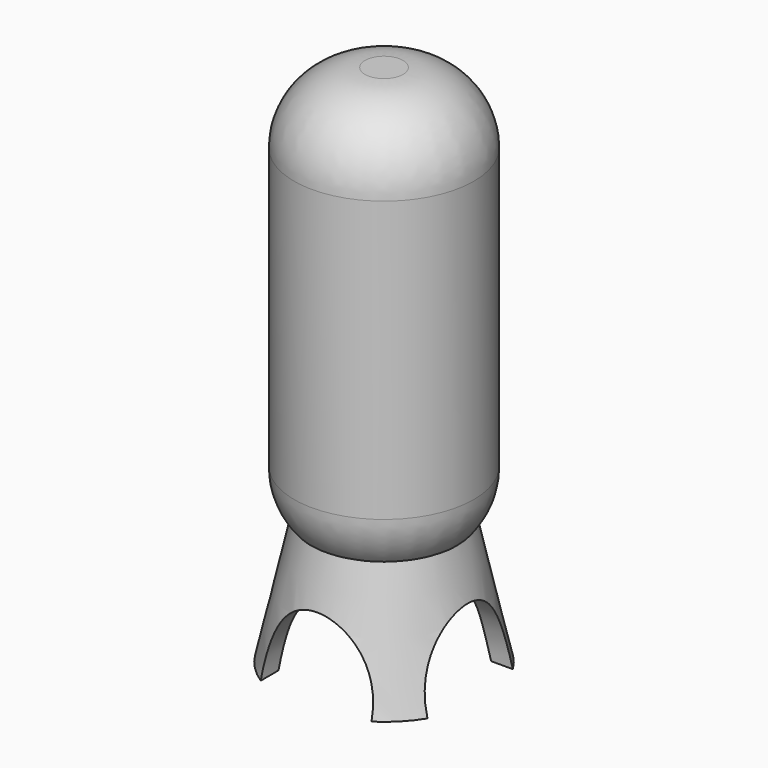
from build123d import *

# Parameters (mm, degrees)
F5_DEPTH = 400
F7_DEPTH = 400


with BuildPart() as f1:
    # F0 (on Front) → F1 (revolve)
    with BuildSketch(Plane.XZ):
        with BuildLine():
            Line((0, 1666), (0, 0))
            Line((0, 0), (75, 0))
            ThreePointArc((75, 0), (272.989899, 82.010101), (355, 280))
            Line((355, 280), (355, 1386))
            ThreePointArc((355, 1386), (272.989899, 1583.989899), (75, 1666))
            Line((75, 1666), (0, 1666))
        make_face()
    revolve(axis=Axis((0, 0, 833), (0, 0, -1)))


with BuildPart() as f3:
    # F2 (on Front) → F3 (revolve)
    with BuildSketch(Plane.XZ):
        Polygon((284.76727, 112.636521), (0, 0), (0, -58.67311), (240.945756, 25.545988), (330.118984, -400), (400, -400), align=None)
    revolve(axis=Axis((0, 0, -29.336555), (0, 0, -1)))

    # F4 (on Front) → F5 (cut, symmetric)
    with BuildSketch(Plane.XZ):
        with BuildLine():
            add(Edge.make_bspline(
                [(0, -707.192779), (378.78419, -707.192779), (189.392095, -246.464729), (0, 214.26332), (-189.392095, -246.464729), (-378.78419, -707.192779), (0, -707.192779)],
                knots=[0, 0, 0, 2.094395, 2.094395, 4.18879, 4.18879, 6.283185, 6.283185, 6.283185], degree=2, weights=[1, 0.5, 1, 0.5, 1, 0.5, 1]))
        make_face()
    extrude(amount=F5_DEPTH, both=True, mode=Mode.SUBTRACT)

    # F6 (on Right) → F7 (cut, symmetric)
    with BuildSketch(Plane.YZ):
        with BuildLine():
            add(Edge.make_bspline(
                [(0, -89.477435), (-364.642988, -89.477435), (-182.321494, -555.083461), (0, -1020.689487), (182.321494, -555.083461), (364.642988, -89.477435), (0, -89.477435)],
                knots=[0, 0, 0, 2.094395, 2.094395, 4.18879, 4.18879, 6.283185, 6.283185, 6.283185], degree=2, weights=[1, 0.5, 1, 0.5, 1, 0.5, 1]))
        make_face()
    extrude(amount=F7_DEPTH, both=True, mode=Mode.SUBTRACT)


solid = Compound([f1.part, f3.part])
